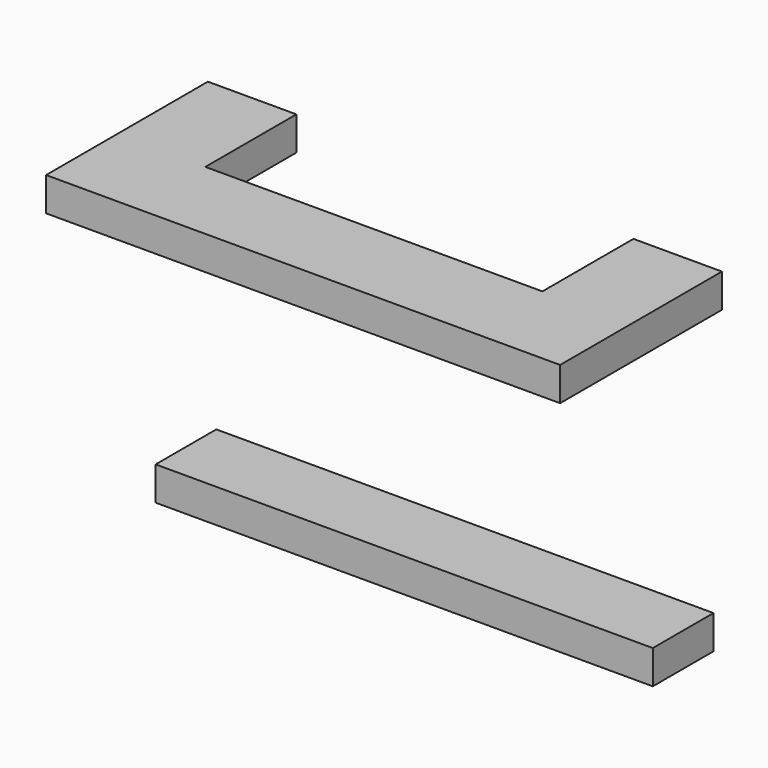
from build123d import *

# Parameters (mm, degrees)
F0_W     = 1498.6
F0_H     = 228.6
F1_DEPTH = 101.6
F4_DEPTH = 101.6


with BuildPart() as f1:
    # F0 (on Top) → F1 (new body)
    with BuildSketch(Plane.XY):
        with Locations((0, -114.3)):
            Rectangle(F0_W, F0_H)
    extrude(amount=F1_DEPTH)


with BuildPart() as f4:
    # F3 (on offset) → F4 (new body)
    with BuildSketch(Plane.XY.offset(914.4)):
        Polygon((-508, -342.9), (-508, 0), (-774.7, 0), (-774.7, -609.6), (774.7, -609.6), (774.7, 0), (508, 0), (508, -342.9), align=None)
    extrude(amount=F4_DEPTH)


solid = Compound([f1.part, f4.part])
